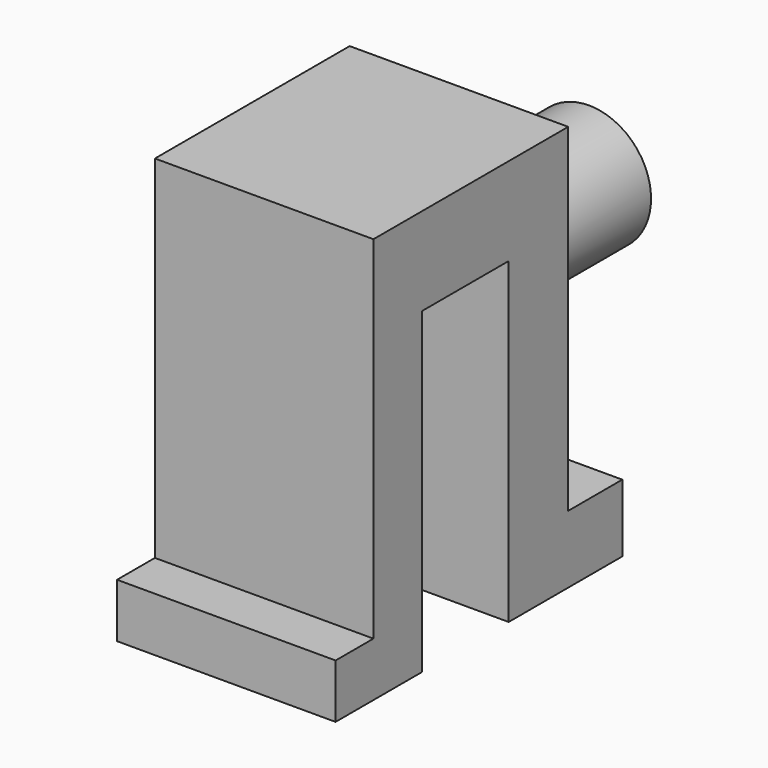
from build123d import *

# Parameters (mm, degrees)
F1_DEPTH = 20
F2_W     = 6.5510021523
F2_H     = 6.1886049807
F3_DEPTH = 5
F4_R     = 5.6777996294
F4_R_2   = 2.4237453519
F5_DEPTH = 10


with BuildPart() as f1:
    # F0 (on Right) → F1 (new body)
    with BuildSketch(Plane.YZ):
        Polygon((-46.2598241866, -13.305501081), (-50.5918487906, -13.305501081), (-50.5918487906, -18.2563848794), (-40.6900793314, -18.2563848794), (-40.6900793314, 10.8300596476), (-30.7883117348, 10.8300596476), (-30.7883117348, -18.2563848794), (-17.7922397852, -18.2563848794), (-17.7922397852, -12.0677798986), (-23.9808466285, -12.0677798986), (-23.9808466285, 18.8752468675), (-46.2598241866, 18.8752468675), align=None)
    extrude(amount=F1_DEPTH)

    # F2 (on face) → F3 (cut)
    with BuildSketch(Plane(origin=(0, -17.7922397852, 0), x_dir=(-1, 0, 0), z_dir=(0, 1, 0))):
        with Locations((-9.8014348187, -15.162082389)):
            Rectangle(F2_W, F2_H)
    extrude(amount=-F3_DEPTH, mode=Mode.SUBTRACT)

    # F4 (on face) → F5 (join)
    with BuildSketch(Plane(origin=(0, -23.9808466285, 0), x_dir=(-1, 0, 0), z_dir=(0, 1, 0))):
        with Locations((-13.9073636383, 8.8768014684)):
            Circle(F4_R)
        with Locations((-13.9073636383, 8.8768014684)):
            Circle(F4_R_2, mode=Mode.SUBTRACT)
    extrude(amount=F5_DEPTH)


solid = f1.part
